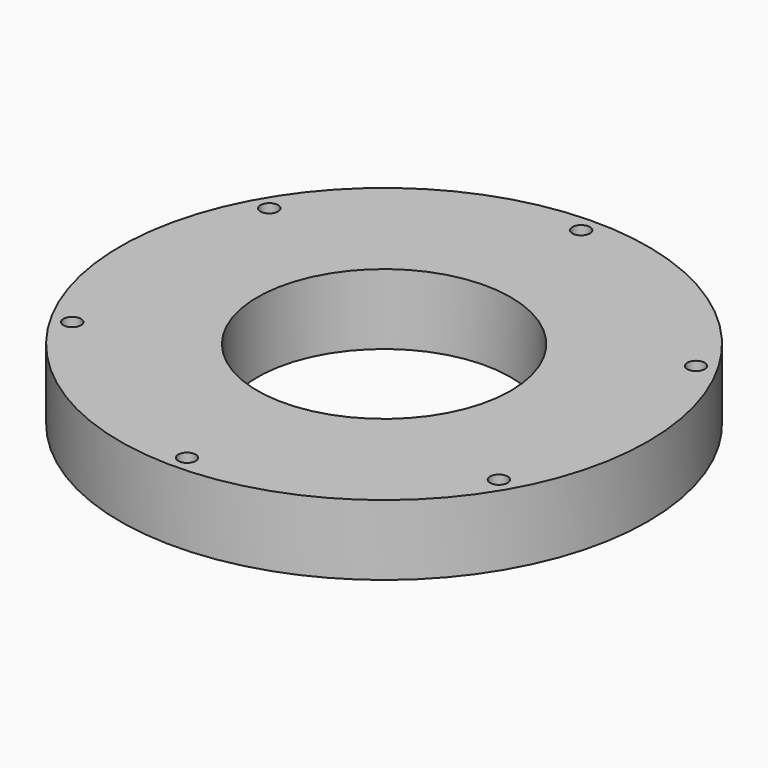
from build123d import *

# Parameters (mm, degrees)
F0_R     = 57.15
F0_R_2   = 27.432
F1_DEPTH = 15.24
F3_D     = 3.7973


with BuildPart() as f1:
    # F0 (on Top) → F1 (new body)
    with BuildSketch(Plane.XY):
        Circle(F0_R)
        Circle(F0_R_2, mode=Mode.SUBTRACT)
    extrude(amount=F1_DEPTH)

    # F3 (through all)
    with Locations(Plane.XY.offset(15.24)):
        with Locations((0, -53.34), (46.1937950379, -26.67), (46.1937950379, 26.67), (0, 53.34), (-46.1937950379, 26.67), (-46.1937950379, -26.67)):
            Hole(F3_D / 2)


solid = f1.part
